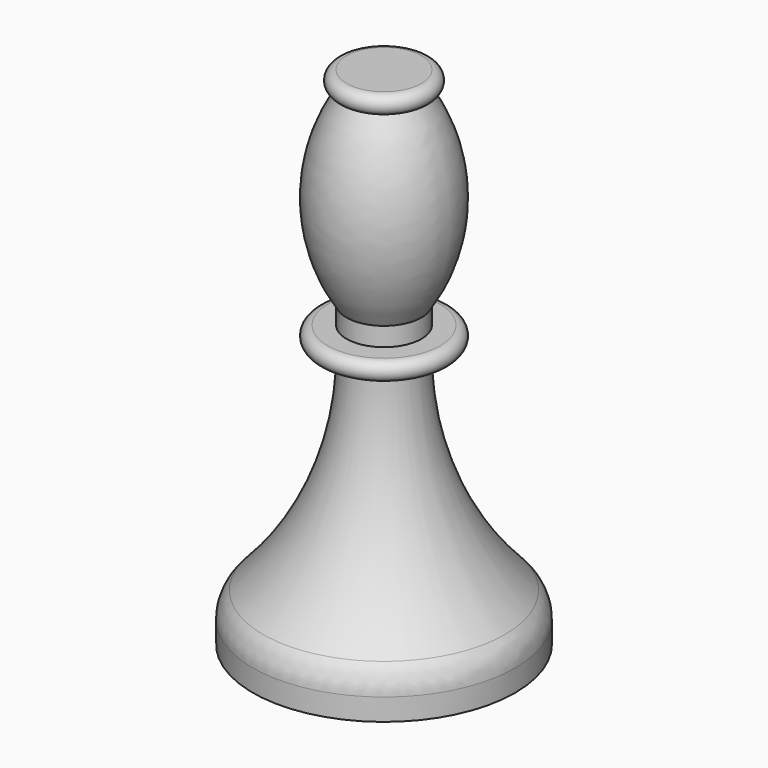
from build123d import *

# Parameters (mm, degrees)
F2_R = 5.08


with BuildPart() as f1:
    # F0 (on Front) → F1 (revolve)
    with BuildSketch(Plane.XZ):
        with BuildLine():
            Line((0, 68.58), (0, 0))
            Line((0, 0), (17.78, 0))
            Line((17.78, 0), (17.78, 5.08))
            ThreePointArc((17.78, 5.08), (8.19488, 18.972033), (5.08, 35.56))
            Line((5.08, 35.56), (7.62, 35.56))
            ThreePointArc((7.62, 35.56), (8.89, 36.83), (7.62, 38.1))
            Line((7.62, 38.1), (5.08, 38.1))
            Line((5.08, 38.1), (5.08, 40.64))
            ThreePointArc((5.08, 40.64), (8.89, 53.34), (5.08, 66.04))
            ThreePointArc((5.08, 66.04), (6.35, 67.31), (5.08, 68.58))
            Line((5.08, 68.58), (0, 68.58))
        make_face()
    revolve(axis=Axis((0, 0, 34.29), (0, 0, 1)))

    # F2
    f2_edges = [f1.edges().sort_by_distance(p)[0] for p in [
        (-17.78, 0, 5.08),
    ]]
    fillet(f2_edges, radius=F2_R)


solid = f1.part
